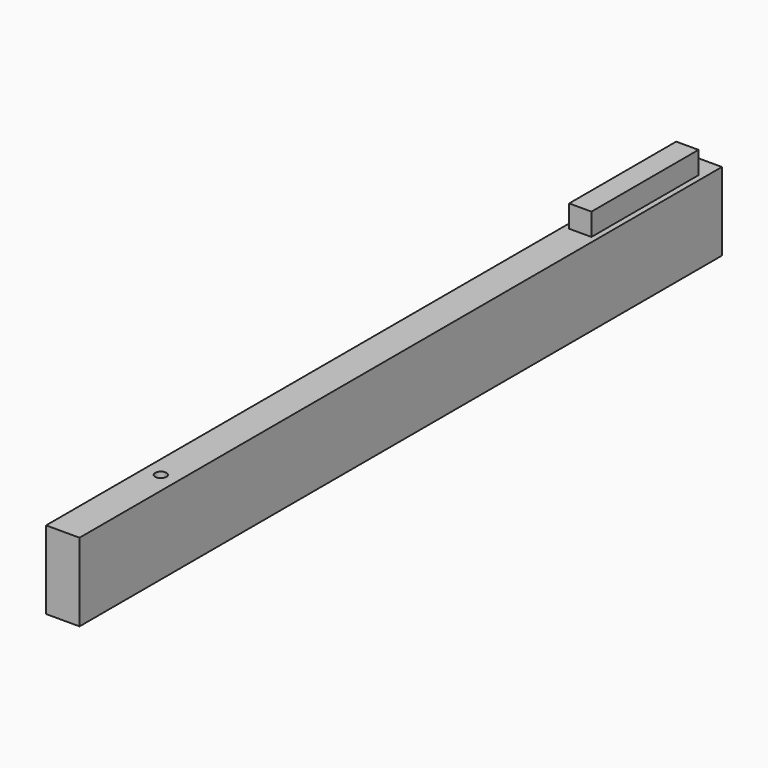
from build123d import *

# Parameters (mm, degrees)
F0_W     = 914.4
F0_H     = 88.9
F1_DEPTH = 38.1
F2_R     = 6.35
F3_DEPTH = 25.4
F4_W     = 25.4
F4_H     = 152.4
F5_DEPTH = 25.4


with BuildPart() as f1:
    # F0 (on Right) → F1 (new body)
    with BuildSketch(Plane.YZ):
        Rectangle(F0_W, F0_H)
    extrude(amount=F1_DEPTH)

    # F2 (on face) → F3 (cut)
    with BuildSketch(Plane.XY.offset(44.45)):
        with Locations((18.882329, -317.5)):
            Circle(F2_R)
    extrude(amount=-F3_DEPTH, mode=Mode.SUBTRACT)

    # F4 (on face) → F5 (join)
    with BuildSketch(Plane.XY.offset(44.45)):
        with Locations((19.05, 355.6)):
            Rectangle(F4_W, F4_H)
    extrude(amount=F5_DEPTH)


solid = f1.part
